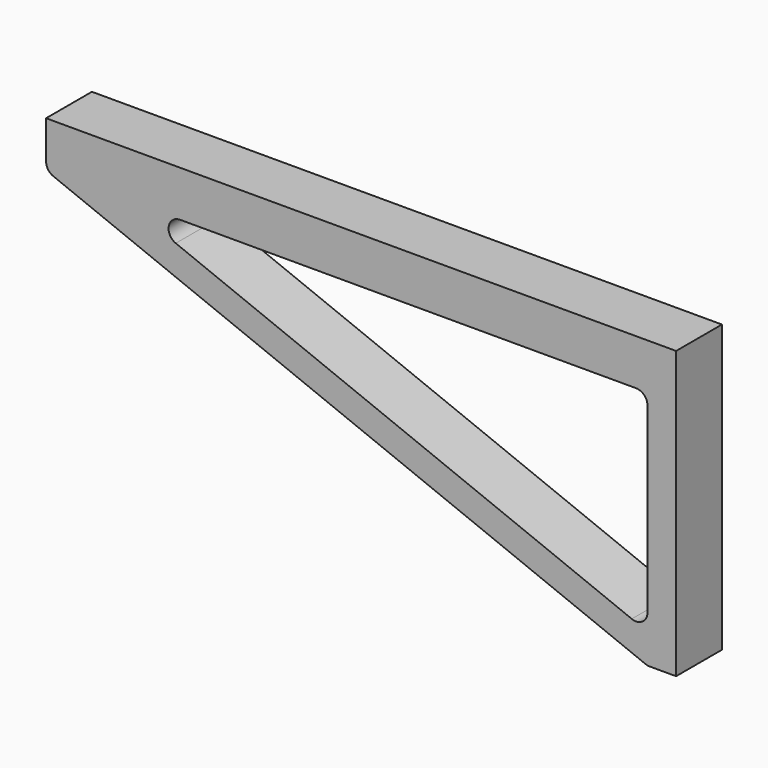
from build123d import *

# Parameters (mm, degrees)
F1_DEPTH = 10
F2_R     = 2


with BuildPart() as f1:
    # F0 (on Front) → F1 (new body)
    with BuildSketch(Plane.XZ):
        Polygon((-5, 0), (0, 0), (0, 50), (-110, 50), (-110, 42), align=None)
        Polygon((-5, 5.2), (-97, 42), (-5, 42), align=None, mode=Mode.SUBTRACT)
    extrude(amount=F1_DEPTH)

    # F2
    f2_edges = [f1.edges().sort_by_distance(p)[0] for p in [
        (-97, -5, 42),
        (-5, -5, 5.2),
        (-5, -5, 42),
        (-110, -5, 42),
        (-5, -5, 0),
    ]]
    fillet(f2_edges, radius=F2_R)


solid = f1.part
